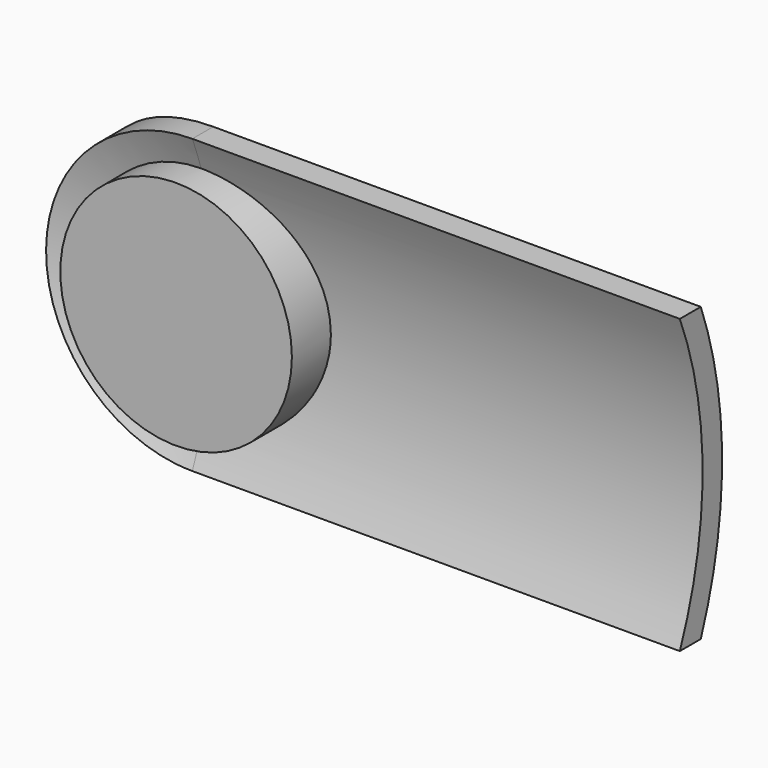
from build123d import *

# Parameters (mm, degrees)
F0_R     = 60.325
F1_DEPTH = 19.05
F4_ANGLE = -180
F2_R     = 203.2
F5_DEPTH = 492.64856
F6_DEPTH = 285.85777
F7_DEPTH = 25.4


with BuildPart() as f1:
    # F0 (on Front) → F1 (new body, symmetric)
    with BuildSketch(Plane.XZ):
        with BuildLine():
            Line((254, 76.2), (0, 76.2))
            ThreePointArc((0, 76.2), (-76.2, 0), (0, -76.2))
            Line((0, -76.2), (254, -76.2))
            Line((254, -76.2), (254, 76.2))
        make_face()
        Circle(F0_R, mode=Mode.SUBTRACT)
        Circle(F0_R)
    extrude(amount=F1_DEPTH, both=True)

    # F3 (on face) → F4 (revolve, cut)
    with BuildSketch(Plane.YZ):
        with BuildLine():
            Line((-406.4, 0), (0, 0))
            ThreePointArc((0, 0), (-203.2, 203.2), (-406.4, 0))
        make_face()
    revolve(axis=Axis((0, -203.2, 0), (0, 1, 0)), revolution_arc=F4_ANGLE, mode=Mode.SUBTRACT)

    # F2 (on Right) → F5 (cut)
    with BuildSketch(Plane.YZ):
        with Locations((-203.2, 0)):
            Circle(F2_R)
    extrude(amount=F5_DEPTH, mode=Mode.SUBTRACT)

    # F2 (on Right) → F6 (cut, symmetric)
    with BuildSketch(Plane.YZ):
        with BuildLine():
            ThreePointArc((-13.238437, 102.60319), (12.640691, -5.060247), (-18.255432, -111.392625))
            Line((-18.255432, -111.392625), (114.283874, -111.392625))
            Line((114.283874, -111.392625), (114.283874, 102.60319))
            Line((114.283874, 102.60319), (-13.238437, 102.60319))
        make_face()
    extrude(amount=F6_DEPTH, both=True, mode=Mode.SUBTRACT)

    # F0 (on Front) → F7 (join)
    with BuildSketch(Plane.XZ):
        Circle(F0_R)
    extrude(amount=F7_DEPTH)


solid = f1.part
